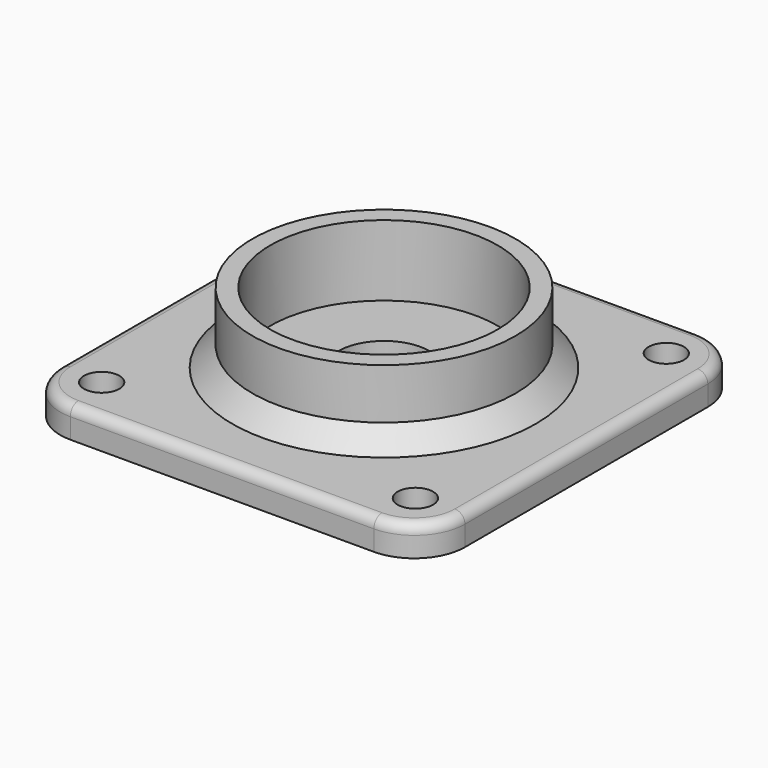
from build123d import *

# Parameters (mm, degrees)
CYLINDER001_R     = 11.25
CYLINDER001_DEPTH = 7
CYLINDER_R        = 13
CYLINDER_DEPTH    = 7
SKETCH_R          = 1.75
SKETCH_R_2        = 4.5
PAD_DEPTH         = 4
BOX_W             = 40
BOX_H             = 40
BOX_DEPTH         = 3
CHAMFER_SIZE      = 2
FILLET_R          = 5
FILLET001_R       = 1


with BuildPart() as obj1:
    # Cylinder001 → Cylinder001 (new body)
    with BuildSketch(Plane.XY):
        Circle(CYLINDER001_R)
    extrude(amount=CYLINDER001_DEPTH)


with BuildPart() as cut001:
    # Cylinder → Cylinder (new body)
    with BuildSketch(Plane.XY):
        Circle(CYLINDER_R)
    extrude(amount=CYLINDER_DEPTH)

    # Cut001: cut obj1
    add(obj1.part, mode=Mode.SUBTRACT)


with BuildPart() as cut001_1:
    # Cut001 placement: moved
    add(cut001.part.moved(Location((0, 0, 3))))


with BuildPart() as pad:
    # Sketch → Pad (new body)
    with BuildSketch(Plane.XY.offset(-0.5)):
        with Locations((-15.5, 15.5)):
            Circle(SKETCH_R)
        with Locations((15.5, 15.5)):
            Circle(SKETCH_R)
        with Locations((-15.5, -15.5)):
            Circle(SKETCH_R)
        with Locations((15.5, -15.5)):
            Circle(SKETCH_R)
        Circle(SKETCH_R_2)
    extrude(amount=PAD_DEPTH)


with BuildPart() as x_end_idler_cnc:
    # Box → Box (new body)
    with BuildSketch(Plane(origin=(-20, -20, 0), x_dir=(1, 0, 0), z_dir=(0, 0, 1))):
        with Locations((20, 20)):
            Rectangle(BOX_W, BOX_H)
    extrude(amount=BOX_DEPTH)

    # Cut: cut Pad
    add(pad.part, mode=Mode.SUBTRACT)

    # Fusion: union Cut001
    add(cut001_1.part)

    # Chamfer
    chamfer_edges = [x_end_idler_cnc.edges().sort_by_distance(p)[0] for p in [
        (-13, 0, 3),
    ]]
    chamfer(chamfer_edges, length=CHAMFER_SIZE)

    # Fillet
    fillet_edges = [x_end_idler_cnc.edges().sort_by_distance(p)[0] for p in [
        (-20, -20, 1.5),
        (-20, 20, 1.5),
        (20, 20, 1.5),
        (20, -20, 1.5),
    ]]
    fillet(fillet_edges, radius=FILLET_R)

    # Fillet001
    fillet001_edges = [x_end_idler_cnc.edges().sort_by_distance(p)[0] for p in [
        (-20, 0, 3),
        (-18.535534, -18.535534, 3),
        (-18.535534, 18.535534, 3),
        (0, -20, 3),
        (0, 20, 3),
        (18.535534, -18.535534, 3),
        (18.535534, 18.535534, 3),
        (20, 0, 3),
    ]]
    fillet(fillet001_edges, radius=FILLET001_R)


solid = x_end_idler_cnc.part
